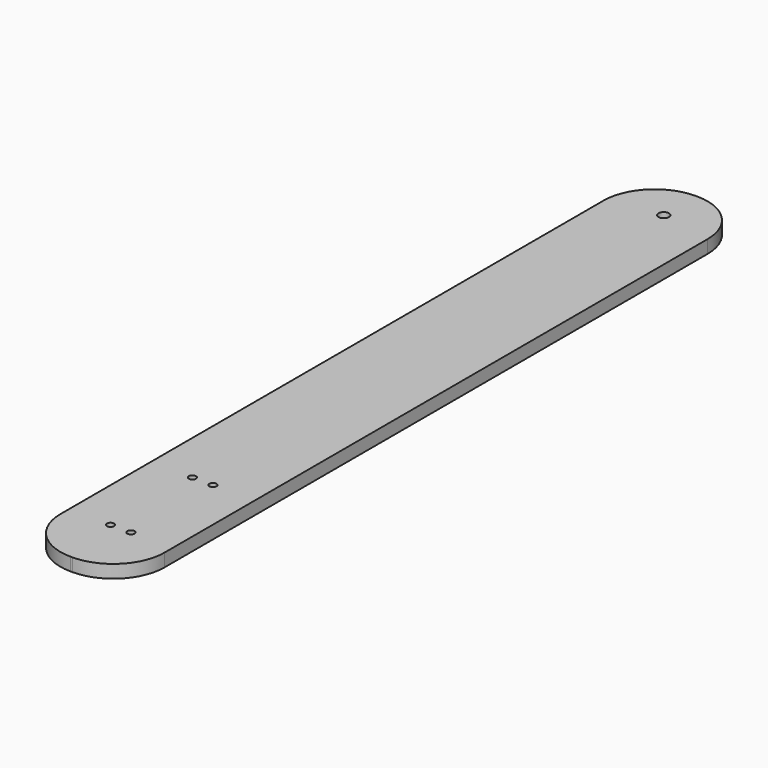
from build123d import *

# Parameters (mm, degrees)
F0_R     = 1.75
F0_R_2   = 2.55
F1_DEPTH = 6.35


with BuildPart() as f1:
    # F0 (on Top) → F1 (new body)
    with BuildSketch(Plane.XY):
        with BuildLine():
            ThreePointArc((25.4, 165.5), (18.07767, 183.17767), (0.4, 190.5))
            Line((0.4, 190.5), (-0.4, 190.5))
            ThreePointArc((-0.4, 190.5), (-18.07767, 183.17767), (-25.4, 165.5))
            Line((-25.4, 165.5), (-25.4, -165.5))
            ThreePointArc((-25.4, -165.5), (-18.07767, -183.17767), (-0.4, -190.5))
            Line((-0.4, -190.5), (0.4, -190.5))
            ThreePointArc((0.4, -190.5), (18.07767, -183.17767), (25.4, -165.5))
            Line((25.4, -165.5), (25.4, 165.5))
        make_face()
        with Locations((-5, -160.5)):
            Circle(F0_R, mode=Mode.SUBTRACT)
        with Locations((-5, -110.5)):
            Circle(F0_R, mode=Mode.SUBTRACT)
        with Locations((5, -160.5)):
            Circle(F0_R, mode=Mode.SUBTRACT)
        with Locations((5, -110.5)):
            Circle(F0_R, mode=Mode.SUBTRACT)
        with Locations((0, 170.5)):
            Circle(F0_R_2, mode=Mode.SUBTRACT)
    extrude(amount=F1_DEPTH)


solid = f1.part
